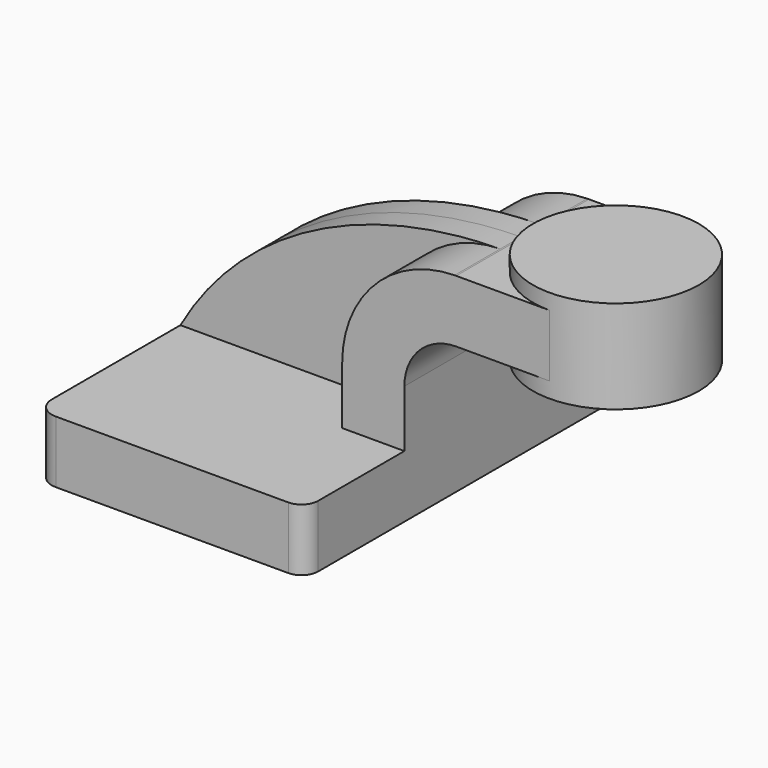
from build123d import *

# Parameters (mm, degrees)
F1_DEPTH  = 63.5
F2_DEPTH  = 25.4
F3_DEPTH  = 7.9375
F2_FACE_W = 50.8
F2_FACE_H = 19.05
F4_DEPTH  = 25.4
F7_R      = 5.08
F8_R      = 6.35


with BuildPart() as f1:
    # F0 (on Front) → F1 (new body, symmetric)
    with BuildSketch(Plane.XZ):
        Polygon((22.225, 9.525), (-41.275, 9.525), (-41.275, -9.525), (41.275, -9.525), (41.275, 9.525), align=None)
    extrude(amount=F1_DEPTH, both=True)

    # F0 (on Front) → F2 (join, symmetric)
    with BuildSketch(Plane.XZ):
        with BuildLine():
            Line((22.225, 27.0002), (22.225, 9.525))
            Line((22.225, 9.525), (41.275, 9.525))
            Line((41.275, 9.525), (41.275, 27.0002))
            ThreePointArc((41.275, 27.0002), (45.92468, 38.22552), (57.15, 42.8752))
            Line((57.15, 42.8752), (60.325, 42.8752))
            Line((60.325, 42.8752), (60.325, 61.9252))
            Line((60.325, 61.9252), (57.15, 61.9252))
            add(Edge.make_bspline(
                [(56.663359, 61.921809), (56.825525, 61.923217), (56.987739, 61.924347), (57.15, 61.9252)],
                knots=[111.064005, 111.064005, 111.064005, 111.064005, 111.504536, 111.504536, 111.504536, 111.504536], degree=3))
            ThreePointArc((56.663359, 61.921809), (32.282837, 51.523247), (22.225, 27.0002))
        make_face()
    extrude(amount=F2_DEPTH, both=True)

    # F0 (on Front) → F3 (join, symmetric)
    with BuildSketch(Plane.XZ):
        with BuildLine():
            add(Edge.make_bspline(
                [(-41.275, 9.525), (-22.040929, 43.59531), (15.779117, 61.566989), (56.663359, 61.921809)],
                knots=[0, 0, 0, 0, 111.064005, 111.064005, 111.064005, 111.064005], degree=3))
            Line((-41.275, 9.525), (22.225, 9.525))
            Line((22.225, 9.525), (22.225, 27.0002))
            ThreePointArc((22.225, 27.0002), (32.282837, 51.523247), (56.663359, 61.921809))
        make_face()
    extrude(amount=F3_DEPTH, both=True)

    # F2_face (on face) → F4 (join)
    with BuildSketch(Plane(origin=(60.325, 0, 52.4002), x_dir=(0, 1, 0), z_dir=(1, 0, 0))):
        Rectangle(F2_FACE_W, F2_FACE_H)
    extrude(amount=F4_DEPTH)

    # F0 (on Front) → F6 (revolve)
    with BuildSketch(Plane.XZ):
        Polygon((85.725, 66.675), (85.725, 61.9252), (85.725, 42.8752), (85.725, 38.1), (111.125, 38.1), (111.125, 66.675), align=None)
    revolve(axis=Axis((85.725, 0, 52.3875), (0, 0, -1)))

    # F7
    f7_edges = [f1.edges().sort_by_distance(p)[0] for p in [
        (41.275, -63.5, 0),
        (41.275, 63.5, 0),
        (-41.275, 63.5, 0),
    ]]
    fillet(f7_edges, radius=F7_R)

    # F8
    f8_edges = [f1.edges().sort_by_distance(p)[0] for p in [
        (-41.275, -63.5, 0),
    ]]
    fillet(f8_edges, radius=F8_R)


solid = f1.part
